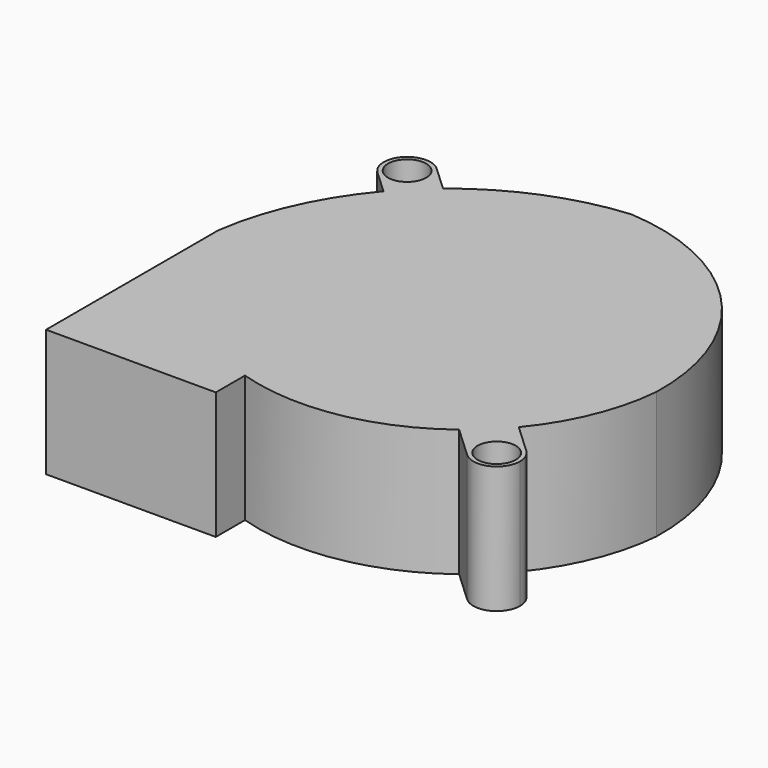
from build123d import *

# Parameters (mm, degrees)
F0_R     = 2.25
F1_DEPTH = 15


with BuildPart() as f1:
    # F0 (on Top) → F1 (new body)
    with BuildSketch(Plane.XY):
        with BuildLine():
            Line((31.366729, -182.725793), (34.111926, -185.285689))
            ThreePointArc((34.111926, -185.285689), (35.991225, -183.270417), (38.043709, -181.431833))
            Line((38.043709, -181.431833), (35.117688, -178.703318))
            ThreePointArc((35.117688, -178.703318), (35.764119, -179.617985), (35.992209, -180.714555))
            ThreePointArc((35.992209, -180.714555), (34.338779, -183.236466), (31.366729, -182.725793))
        make_face()
        with BuildLine():
            Line((27.097168, -200.814555), (27.097168, -226.214555))
            Line((27.097168, -226.214555), (47.097168, -226.214555))
            Line((47.097168, -226.214555), (47.097168, -221.914555))
            ThreePointArc((47.097168, -221.914555), (58.633169, -222.668244), (69.219767, -218.023751))
            ThreePointArc((69.219767, -218.023751), (71.312849, -216.22702), (73.189601, -214.205377))
            ThreePointArc((73.189601, -214.205377), (76.96026, -207.928201), (78.697168, -200.814555))
            ThreePointArc((78.697168, -200.814555), (72.02437, -182.90062), (54.797168, -174.614555))
            ThreePointArc((54.797168, -174.614555), (45.906812, -176.760956), (38.043709, -181.431833))
            ThreePointArc((38.043709, -181.431833), (35.991225, -183.270417), (34.111926, -185.285689))
            ThreePointArc((34.111926, -185.285689), (29.505205, -192.553523), (27.097168, -200.814555))
        make_face()
        with BuildLine():
            ThreePointArc((35.117688, -178.703318), (31.230971, -178.839076), (31.366729, -182.725793))
            ThreePointArc((31.366729, -182.725793), (34.338779, -183.236466), (35.992209, -180.714555))
            ThreePointArc((35.992209, -180.714555), (35.764119, -179.617985), (35.117688, -178.703318))
        make_face()
        with Locations((33.242209, -180.714555)):
            Circle(F0_R, mode=Mode.SUBTRACT)
        with BuildLine():
            ThreePointArc((73.189601, -214.205377), (71.312849, -216.22702), (69.219767, -218.023751))
            Line((69.219767, -218.023751), (72.921689, -221.475793))
            ThreePointArc((72.921689, -221.475793), (72.785931, -217.589076), (76.672648, -217.453318))
            Line((76.672648, -217.453318), (73.189601, -214.205377))
        make_face()
        with BuildLine():
            ThreePointArc((76.672648, -217.453318), (72.785931, -217.589076), (72.921689, -221.475793))
            ThreePointArc((72.921689, -221.475793), (75.893738, -221.986466), (77.547168, -219.464555))
            ThreePointArc((77.547168, -219.464555), (77.319079, -218.367985), (76.672648, -217.453318))
        make_face()
        with Locations((74.797168, -219.464555)):
            Circle(F0_R, mode=Mode.SUBTRACT)
    extrude(amount=-F1_DEPTH)


solid = f1.part
